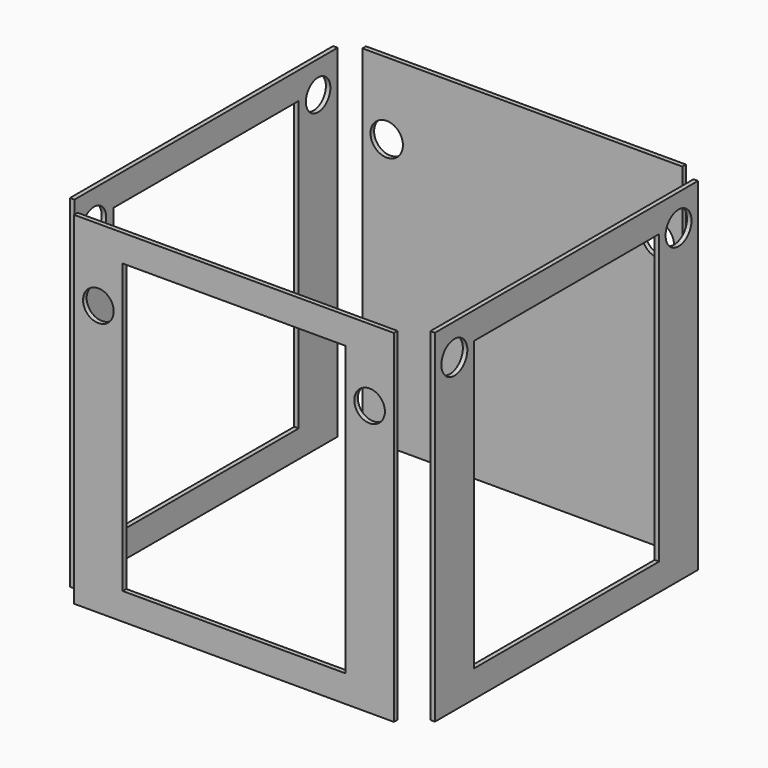
from build123d import *

# Parameters (mm, degrees)
F5_W      = 365
F5_H      = 380
F5_R      = 18
F5_W_2    = 257
F5_H_2    = 320
F9_DEPTH  = 5
F6_W      = 355
F6_H      = 380
F6_R      = 18
F10_DEPTH = 5
F7_W      = 355
F7_H      = 380
F7_R      = 17
F7_W_2    = 247
F7_H_2    = 320
F11_DEPTH = 5
F8_W      = 365
F8_H      = 380
F8_R      = 17
F8_W_2    = 257
F8_H_2    = 320
F12_DEPTH = 5


with BuildPart() as f9:
    # F5 (on offset) → F9 (new body)
    with BuildSketch(Plane.YZ.offset(200)):
        Rectangle(F5_W, F5_H)
        with Locations((-155.5, 155)):
            Circle(F5_R, mode=Mode.SUBTRACT)
        Rectangle(F5_W_2, F5_H_2, mode=Mode.SUBTRACT)
        with Locations((155.5, 155)):
            Circle(F5_R, mode=Mode.SUBTRACT)
    extrude(amount=F9_DEPTH)


with BuildPart() as f10:
    # F6 (on offset) → F10 (new body)
    with BuildSketch(Plane.XZ.offset(-200)):
        Rectangle(F6_W, F6_H)
        with Locations((-150.5, 110)):
            Circle(F6_R, mode=Mode.SUBTRACT)
        with Locations((150.5, 110)):
            Circle(F6_R, mode=Mode.SUBTRACT)
    extrude(amount=F10_DEPTH)


with BuildPart() as f11:
    # F7 (on offset) → F11 (new body)
    with BuildSketch(Plane.XZ.offset(200)):
        Rectangle(F7_W, F7_H)
        with Locations((-150.5, 110)):
            Circle(F7_R, mode=Mode.SUBTRACT)
        Rectangle(F7_W_2, F7_H_2, mode=Mode.SUBTRACT)
        with Locations((150.5, 110)):
            Circle(F7_R, mode=Mode.SUBTRACT)
    extrude(amount=F11_DEPTH)


with BuildPart() as f12:
    # F8 (on offset) → F12 (new body)
    with BuildSketch(Plane.YZ.offset(-200)):
        Rectangle(F8_W, F8_H)
        with Locations((-155.5, 155)):
            Circle(F8_R, mode=Mode.SUBTRACT)
        Rectangle(F8_W_2, F8_H_2, mode=Mode.SUBTRACT)
        with Locations((155.5, 155)):
            Circle(F8_R, mode=Mode.SUBTRACT)
    extrude(amount=F12_DEPTH)


solid = Compound([f9.part, f10.part, f11.part, f12.part])
